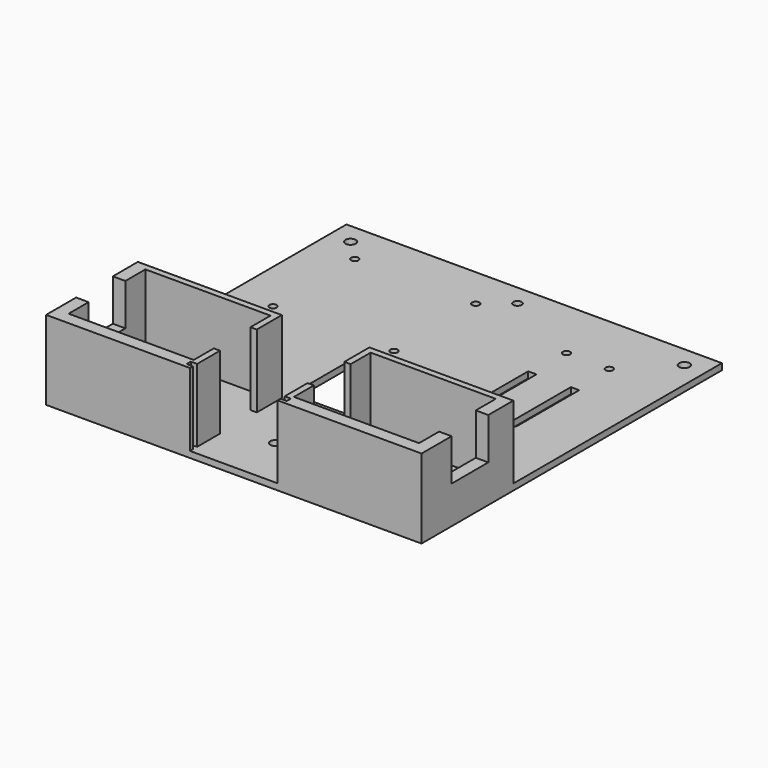
from build123d import *

# Parameters (mm, degrees)
SKETCH_W     = 180
SKETCH_H     = 180
SKETCH_R     = 2
SKETCH_R_2   = 1.75
SKETCH_R_3   = 2.5
SKETCH_W_2   = 40
SKETCH_H_2   = 40
SKETCH_W_3   = 4
SKETCH_H_3   = 38
PAD_DEPTH    = 3
PAD001_DEPTH = 35
SKETCH002_W  = 22
SKETCH002_H  = 20
POCKET_DEPTH = 200


with BuildPart() as part:
    # Sketch → Pad (new body)
    with BuildSketch(Plane.XY):
        with Locations((90, 90)):
            Rectangle(SKETCH_W, SKETCH_H)
        with Locations((40, 10)):
            Circle(SKETCH_R, mode=Mode.SUBTRACT)
        with Locations((140, 10)):
            Circle(SKETCH_R, mode=Mode.SUBTRACT)
        with Locations((90, 170)):
            Circle(SKETCH_R, mode=Mode.SUBTRACT)
        with Locations((20, 160)):
            Circle(SKETCH_R_2, mode=Mode.SUBTRACT)
        with Locations((78, 160)):
            Circle(SKETCH_R_2, mode=Mode.SUBTRACT)
        with Locations((20, 111)):
            Circle(SKETCH_R_2, mode=Mode.SUBTRACT)
        with Locations((78, 111)):
            Circle(SKETCH_R_2, mode=Mode.SUBTRACT)
        with Locations((90, 25)):
            Circle(SKETCH_R_3, mode=Mode.SUBTRACT)
        with Locations((10, 170)):
            Circle(SKETCH_R_3, mode=Mode.SUBTRACT)
        with Locations((170, 170)):
            Circle(SKETCH_R_3, mode=Mode.SUBTRACT)
        with Locations((129.5, 150)):
            Circle(SKETCH_R_2, mode=Mode.SUBTRACT)
        with Locations((150, 150)):
            Circle(SKETCH_R_2, mode=Mode.SUBTRACT)
        with Locations((129.5, 88.5)):
            Circle(SKETCH_R_2, mode=Mode.SUBTRACT)
        with Locations((150, 88.5)):
            Circle(SKETCH_R_2, mode=Mode.SUBTRACT)
        with Locations((90, 80)):
            Rectangle(SKETCH_W_2, SKETCH_H_2, mode=Mode.SUBTRACT)
        with Locations((129.5, 110.5)):
            Rectangle(SKETCH_W_3, SKETCH_H_3, mode=Mode.SUBTRACT)
        with Locations((150, 110.5)):
            Rectangle(SKETCH_W_3, SKETCH_H_3, mode=Mode.SUBTRACT)
    extrude(amount=PAD_DEPTH)

    # Sketch001 → Pad001 (join)
    with BuildSketch(Plane.XY.offset(3)):
        Polygon((0, 0), (69, 0), (69, 1.75), (66, 1.75), (66, 4.25), (69, 4.25), (69, 18), (66, 18), (66, 6), (6, 6), (6, 52), (66, 52), (66, 40), (69, 40), (69, 55), (0, 55), align=None)
        Polygon((180, 0), (111, 0), (111, 1.75), (114, 1.75), (114, 4.25), (111, 4.25), (111, 18), (114, 18), (114, 6), (174, 6), (174, 52), (114, 52), (114, 40), (111, 40), (111, 55), (180, 55), align=None)
    extrude(amount=PAD001_DEPTH)

    # Sketch002 (on Face10 of Pad001) → Pocket (cut)
    with BuildSketch(Plane.YZ.offset(180)):
        with Locations((29, 28)):
            Rectangle(SKETCH002_W, SKETCH002_H)
    extrude(amount=-POCKET_DEPTH, mode=Mode.SUBTRACT)


solid = part.part
